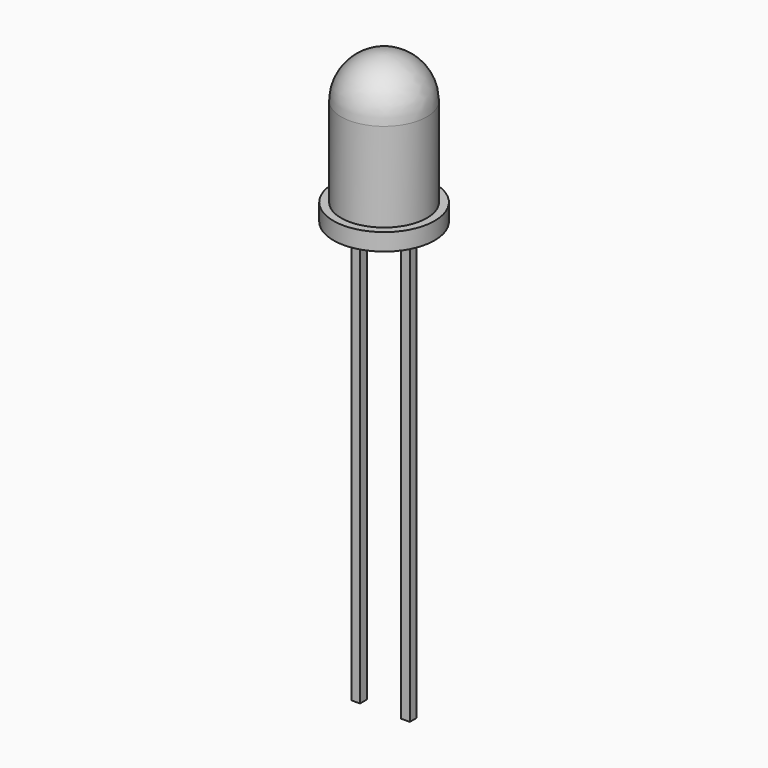
from build123d import *

# Parameters (mm, degrees)
F0_W     = 2.5
F0_H     = 1
F0_W_2   = 0.45
F2_W     = 0.5
F2_H     = 0.5
F3_DEPTH = 25


with BuildPart() as f1:
    # F0 (on Front) → F1 (revolve)
    with BuildSketch(Plane.XZ):
        with Locations((1.25, 0.5)):
            Rectangle(F0_W, F0_H)
        with BuildLine():
            Line((0, 3.69), (0, 1))
            Line((0, 1), (2.5, 1))
            Line((2.5, 1), (2.5, 6.19))
            ThreePointArc((2.5, 6.19), (1.767767, 4.422233), (0, 3.69))
        make_face()
        with Locations((2.725, 0.5)):
            Rectangle(F0_W_2, F0_H)
        with BuildLine():
            Line((0, 6.19), (0, 3.69))
            ThreePointArc((0, 3.69), (1.767767, 4.422233), (2.5, 6.19))
            Line((2.5, 6.19), (0, 6.19))
        make_face()
        with BuildLine():
            Line((0, 8.69), (0, 6.19))
            Line((0, 6.19), (2.5, 6.19))
            ThreePointArc((2.5, 6.19), (1.767767, 7.957767), (0, 8.69))
        make_face()
    revolve(axis=Axis((0, 0, 3.095), (0, 0, 1)))

    # F2 (on face) → F3 (join)
    with BuildSketch(Plane(origin=(0, 0, 0), x_dir=(1, 0, 0), z_dir=(0, 0, -1))):
        with Locations((-1.45, 0)):
            Rectangle(F2_W, F2_H)
        with Locations((1.45, 0)):
            Rectangle(F2_W, F2_H)
    extrude(amount=F3_DEPTH)


solid = f1.part
